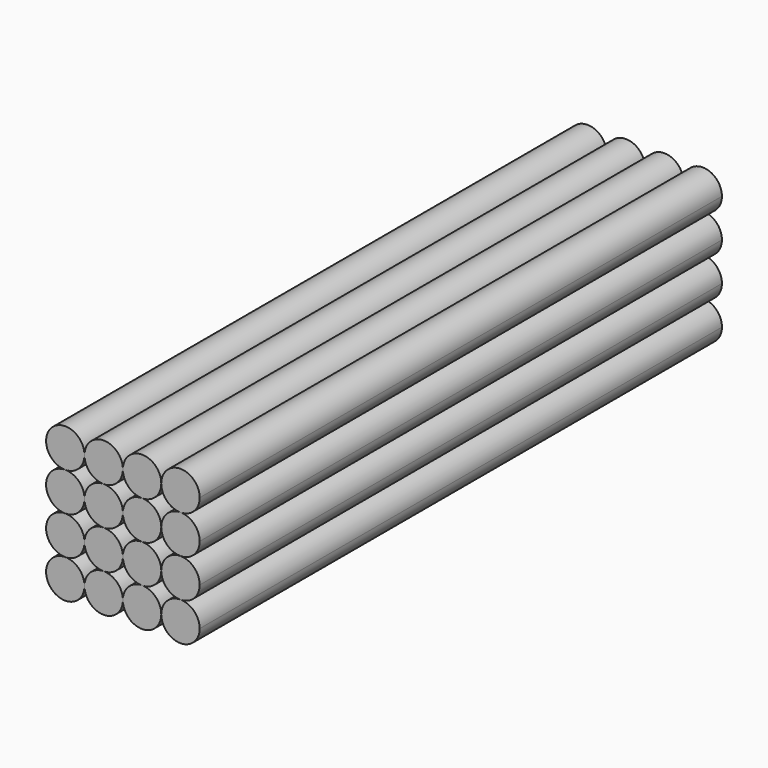
from build123d import *

# Parameters (mm, degrees)
F1_DEPTH = 86.36


with BuildPart() as f1:
    # F0 (on Front) → F1 (new body)
    with BuildSketch(Plane.XZ):
        with BuildLine():
            ThreePointArc((0, 2.54), (-1.796051, -1.796051), (2.54, 0))
            ThreePointArc((2.54, 0), (1.796051, 1.796051), (0, 2.54))
        make_face()
        with BuildLine():
            ThreePointArc((2.54, 15.24), (-1.796051, 17.036051), (0, 12.7))
            ThreePointArc((0, 12.7), (1.796051, 13.443949), (2.54, 15.24))
        make_face()
        with BuildLine():
            ThreePointArc((15.24, 2.54), (13.443949, 1.796051), (12.7, 0))
            ThreePointArc((12.7, 0), (15.24, -2.54), (17.78, 0))
            ThreePointArc((17.78, 0), (17.036051, 1.796051), (15.24, 2.54))
        make_face()
        with BuildLine():
            ThreePointArc((12.7, 15.24), (13.443949, 13.443949), (15.24, 12.7))
            ThreePointArc((15.24, 12.7), (17.036051, 13.443949), (17.78, 15.24))
            ThreePointArc((17.78, 15.24), (15.24, 17.78), (12.7, 15.24))
        make_face()
        with BuildLine():
            ThreePointArc((0, 7.62), (-2.54, 5.08), (0, 2.54))
            ThreePointArc((0, 2.54), (1.796051, 3.283949), (2.54, 5.08))
            ThreePointArc((2.54, 5.08), (1.796051, 6.876051), (0, 7.62))
        make_face()
        with BuildLine():
            ThreePointArc((0, 12.7), (-2.54, 10.16), (0, 7.62))
            ThreePointArc((0, 7.62), (1.796051, 8.363949), (2.54, 10.16))
            ThreePointArc((2.54, 10.16), (1.796051, 11.956051), (0, 12.7))
        make_face()
        with BuildLine():
            ThreePointArc((5.08, 2.54), (3.283949, 1.796051), (2.54, 0))
            ThreePointArc((2.54, 0), (5.08, -2.54), (7.62, 0))
            ThreePointArc((7.62, 0), (6.876051, 1.796051), (5.08, 2.54))
        make_face()
        with BuildLine():
            ThreePointArc((7.62, 15.24), (5.08, 17.78), (2.54, 15.24))
            ThreePointArc((2.54, 15.24), (3.283949, 13.443949), (5.08, 12.7))
            ThreePointArc((5.08, 12.7), (6.876051, 13.443949), (7.62, 15.24))
        make_face()
        with BuildLine():
            ThreePointArc((10.16, 2.54), (8.363949, 1.796051), (7.62, 0))
            ThreePointArc((7.62, 0), (10.16, -2.54), (12.7, 0))
            ThreePointArc((12.7, 0), (11.956051, 1.796051), (10.16, 2.54))
        make_face()
        with BuildLine():
            ThreePointArc((12.7, 15.24), (10.16, 17.78), (7.62, 15.24))
            ThreePointArc((7.62, 15.24), (8.363949, 13.443949), (10.16, 12.7))
            ThreePointArc((10.16, 12.7), (11.956051, 13.443949), (12.7, 15.24))
        make_face()
        with BuildLine():
            ThreePointArc((12.7, 5.08), (13.443949, 3.283949), (15.24, 2.54))
            ThreePointArc((15.24, 2.54), (17.036051, 3.283949), (17.78, 5.08))
            ThreePointArc((17.78, 5.08), (17.036051, 6.876051), (15.24, 7.62))
            ThreePointArc((15.24, 7.62), (13.443949, 6.876051), (12.7, 5.08))
        make_face()
        with BuildLine():
            ThreePointArc((12.7, 10.16), (13.443949, 8.363949), (15.24, 7.62))
            ThreePointArc((15.24, 7.62), (17.036051, 8.363949), (17.78, 10.16))
            ThreePointArc((17.78, 10.16), (17.036051, 11.956051), (15.24, 12.7))
            ThreePointArc((15.24, 12.7), (13.443949, 11.956051), (12.7, 10.16))
        make_face()
        with BuildLine():
            ThreePointArc((7.62, 5.08), (8.363949, 3.283949), (10.16, 2.54))
            ThreePointArc((10.16, 2.54), (11.956051, 3.283949), (12.7, 5.08))
            ThreePointArc((12.7, 5.08), (11.956051, 6.876051), (10.16, 7.62))
            ThreePointArc((10.16, 7.62), (8.363949, 6.876051), (7.62, 5.08))
        make_face()
        with BuildLine():
            ThreePointArc((2.54, 5.08), (3.283949, 3.283949), (5.08, 2.54))
            ThreePointArc((5.08, 2.54), (6.876051, 3.283949), (7.62, 5.08))
            ThreePointArc((7.62, 5.08), (6.876051, 6.876051), (5.08, 7.62))
            ThreePointArc((5.08, 7.62), (3.283949, 6.876051), (2.54, 5.08))
        make_face()
        with BuildLine():
            ThreePointArc((7.62, 10.16), (8.363949, 8.363949), (10.16, 7.62))
            ThreePointArc((10.16, 7.62), (11.956051, 8.363949), (12.7, 10.16))
            ThreePointArc((12.7, 10.16), (11.956051, 11.956051), (10.16, 12.7))
            ThreePointArc((10.16, 12.7), (8.363949, 11.956051), (7.62, 10.16))
        make_face()
        with BuildLine():
            ThreePointArc((5.08, 12.7), (3.283949, 11.956051), (2.54, 10.16))
            ThreePointArc((2.54, 10.16), (3.283949, 8.363949), (5.08, 7.62))
            ThreePointArc((5.08, 7.62), (6.876051, 8.363949), (7.62, 10.16))
            ThreePointArc((7.62, 10.16), (6.876051, 11.956051), (5.08, 12.7))
        make_face()
    extrude(amount=F1_DEPTH)


solid = f1.part
